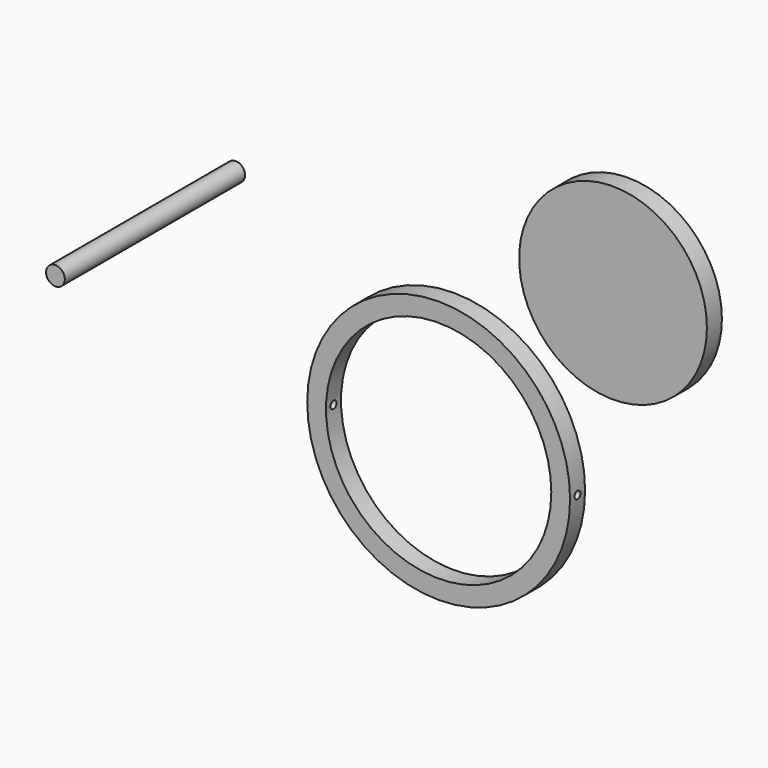
from build123d import *

# Parameters (mm, degrees)
F0_R     = 35
F0_R_2   = 30
F1_DEPTH = 5
F3_D     = 2
F3_DEPTH = 45
F3_TIP   = 0.600860619
F5_D     = 2
F5_DEPTH = 100
F5_TIP   = 0.600860619
F6_R     = 25
F7_DEPTH = 5
F8_R     = 2.5
F9_DEPTH = 60


with BuildPart() as f1:
    # F0 (on Front) → F1 (new body)
    with BuildSketch(Plane.XZ):
        Circle(F0_R)
        Circle(F0_R_2, mode=Mode.SUBTRACT)
    extrude(amount=F1_DEPTH)

    # F3 (one way)
    with BuildSketch(Plane.YZ):
        with Locations((-2.4911221117, 0)):
            Circle(F3_D / 2)
    extrude(amount=-F3_DEPTH, mode=Mode.SUBTRACT)
    with Locations(Plane.YZ):
        with Locations((-2.4911221117, 0)):
            with Locations((0, 0, -(F3_DEPTH + F3_TIP / 2))):  # 118° drill point
                Cone(0, F3_D / 2, F3_TIP, mode=Mode.SUBTRACT)

    # F5 (one way)
    with BuildSketch(Plane(origin=(0, 0, 0), x_dir=(0, 1, 0), z_dir=(-1, 0, 0))):
        with Locations((-2.5122950319, 0)):
            Circle(F5_D / 2)
    extrude(amount=-F5_DEPTH, mode=Mode.SUBTRACT)
    with Locations(Plane(origin=(0, 0, 0), x_dir=(0, 1, 0), z_dir=(-1, 0, 0))):
        with Locations((-2.5122950319, 0)):
            with Locations((0, 0, -(F5_DEPTH + F5_TIP / 2))):  # 118° drill point
                Cone(0, F5_D / 2, F5_TIP, mode=Mode.SUBTRACT)


with BuildPart() as f7:
    # F6 (on Front) → F7 (new body)
    with BuildSketch(Plane.XZ):
        with Locations((46.4415626587, 52.0854784032)):
            Circle(F6_R)
    extrude(amount=F7_DEPTH)


with BuildPart() as f9:
    # F8 (on Front) → F9 (new body)
    with BuildSketch(Plane.XZ):
        with Locations((-58.0522492528, 44.4917827845)):
            Circle(F8_R)
    extrude(amount=F9_DEPTH)


solid = Compound([f1.part, f7.part, f9.part])
